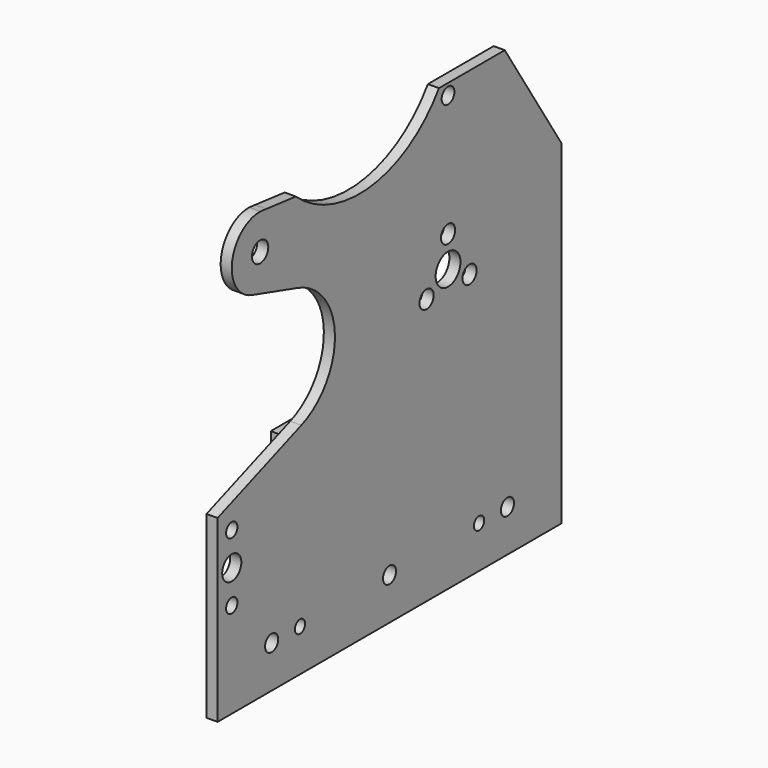
from build123d import *

# Parameters (mm, degrees)
F2_DEPTH = 2.5
F1_R     = 1.8
F1_R_2   = 2
F1_R_3   = 3.5
F1_R_4   = 2.3
F1_R_5   = 1.6
F1_R_6   = 2.7
F1_R_7   = 1.85
F1_R_8   = 1.45
F3_DEPTH = 2.501
F4_W     = 8
F4_H     = 3
F5_DEPTH = 5.5
F6_R     = 1
F7_DEPTH = 45.001


with BuildPart() as f2:
    # F0 (on Right) → F2 (new body)
    with BuildSketch(Plane.YZ):
        with BuildLine():
            Line((0, 40.5), (0, 0))
            Line((0, 0), (97, 0))
            Line((97, 0), (97, 75.5))
            Line((97, 75.5), (81, 100.5))
            Line((81, 100.5), (62.435909, 100.5))
            ThreePointArc((62.435909, 100.5), (43.402845, 88.81449), (22.058582, 95.389522))
            Line((22.058582, 95.389522), (13.745146, 96.307334))
            Line((13.745146, 96.307334), (12, 96.5))
            ThreePointArc((12, 96.5), (4.082951, 89.649058), (9.725713, 80.830084))
            Line((9.725713, 80.830084), (22.650574, 76.997597))
            ThreePointArc((22.650574, 76.997597), (33.091215, 63.506399), (23.611014, 49.323833))
            Line((23.611014, 49.323833), (0, 40.5))
        make_face()
    extrude(amount=F2_DEPTH)

    # F1 (on Right) → F3 (cut, through all)
    with BuildSketch(Plane.YZ):
        with Locations((65, 98)):
            Circle(F1_R)
        with Locations((65, 70.5)):
            Circle(F1_R_2)
        with Locations((65, 63.5)):
            Circle(F1_R_3)
        with Locations((58.937822, 60)):
            Circle(F1_R_2)
        with Locations((71.062178, 60)):
            Circle(F1_R_2)
        with Locations((12, 88.5)):
            Circle(F1_R_4)
        with Locations((4, 36.5)):
            Circle(F1_R_5)
        with Locations((4, 29)):
            Circle(F1_R_6)
        with Locations((4, 21.5)):
            Circle(F1_R_5)
        with Locations((15.25, 9.5)):
            Circle(F1_R_7)
        with Locations((23.25, 9.5)):
            Circle(F1_R_8)
        with Locations((48.5, 9.5)):
            Circle(F1_R_7)
        with Locations((81.75, 9.5)):
            Circle(F1_R_7)
        with Locations((73.75, 9.5)):
            Circle(F1_R_8)
    extrude(amount=F3_DEPTH, mode=Mode.SUBTRACT)

    # F4 (on Right) → F5 (join)
    with BuildSketch(Plane.YZ):
        with Locations((29, 43.5)):
            Rectangle(F4_W, F4_H)
    extrude(amount=-F5_DEPTH)

    # F6 (on face) → F7 (cut, through all)
    with BuildSketch(Plane.XY.offset(45)):
        with Locations((-3, 27.5)):
            Circle(F6_R)
    extrude(amount=-F7_DEPTH, mode=Mode.SUBTRACT)


solid = f2.part
